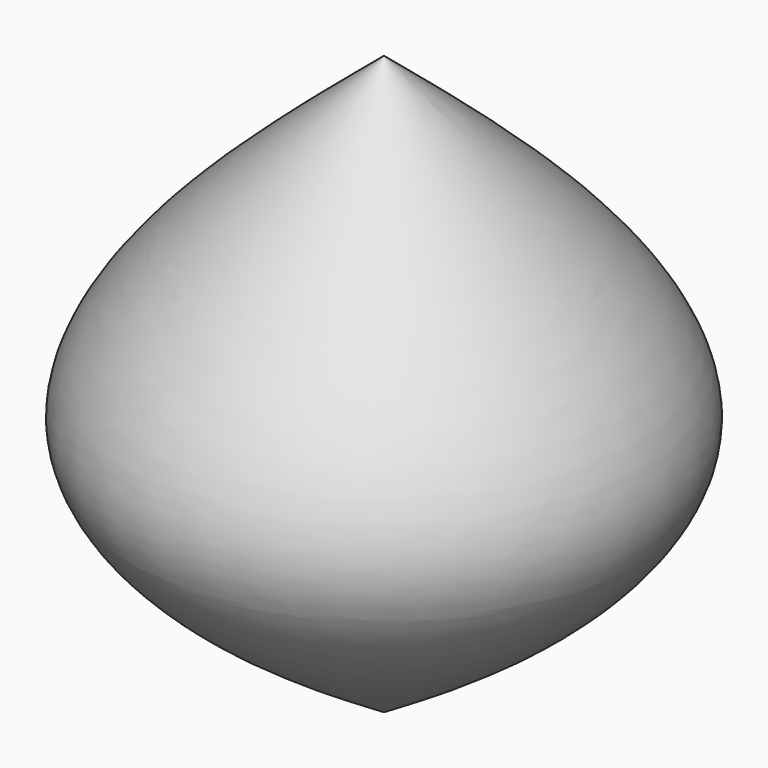
from build123d import *


with BuildPart() as f1:
    # F0 (on Front) → F1 (revolve)
    with BuildSketch(Plane.XZ):
        with BuildLine():
            Line((0, -34.794986248), (0, 35.5072841048))
            add(Edge.make_bspline(
                [(0, 35.5072841048), (-16.4090773954, 21.7858562105), (-48.1632722553, -4.7673060799), (-15.6917592584, -25.0118650807), (0, -34.794986248)],
                knots=[0, 0, 0, 0, 0.5167530611, 1, 1, 1, 1], degree=3))
        make_face()
    revolve(axis=Axis((0, 0, 0.3561489284), (0, 0, -1)))


solid = f1.part
